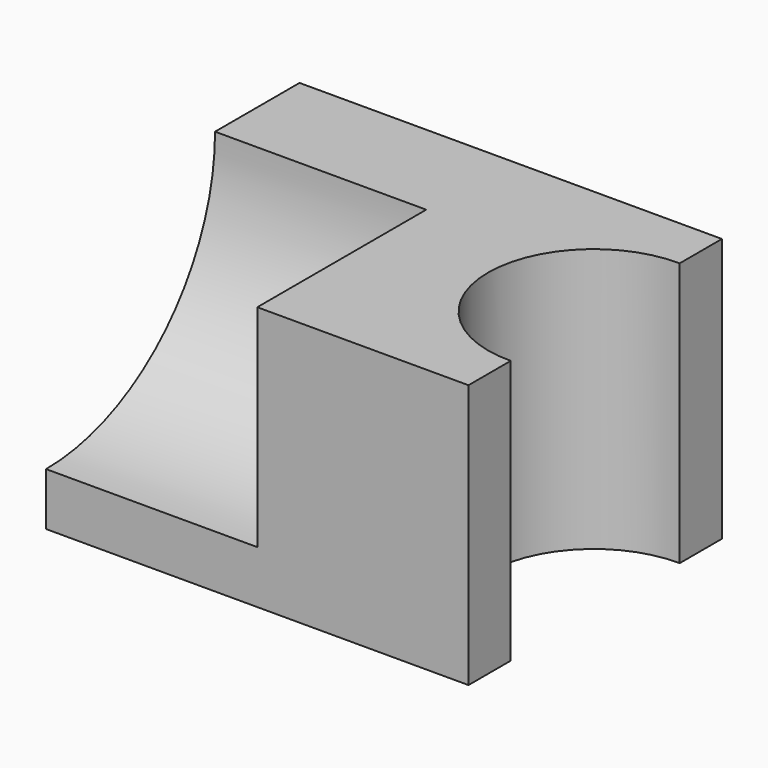
from build123d import *

# Parameters (mm, degrees)
F1_DEPTH = 63.5
F3_DEPTH = 50.8


with BuildPart() as f1:
    # F0 (on Top) → F1 (new body)
    with BuildSketch(Plane.XY):
        with BuildLine():
            Line((52.786062, 43.034812), (-48.813938, 43.034812))
            Line((-48.813938, 43.034812), (-48.813938, -33.165188))
            Line((-48.813938, -33.165188), (52.786062, -33.165188))
            Line((52.786062, -33.165188), (52.786062, -20.465188))
            ThreePointArc((52.786062, -20.465188), (27.037308, 4.934812), (52.786062, 30.334812))
            Line((52.786062, 30.334812), (52.786062, 43.034812))
        make_face()
    extrude(amount=F1_DEPTH)

    # F2 (on face) → F3 (cut)
    with BuildSketch(Plane(origin=(-48.813938, 0, 0), x_dir=(0, -1, 0), z_dir=(-1, 0, 0))):
        with BuildLine():
            Line((33.165188, 63.5), (-17.634812, 63.5))
            ThreePointArc((-17.634812, 63.5), (-2.762561, 27.572251), (33.165188, 12.7))
            Line((33.165188, 12.7), (33.165188, 63.5))
        make_face()
    extrude(amount=-F3_DEPTH, mode=Mode.SUBTRACT)


solid = f1.part
